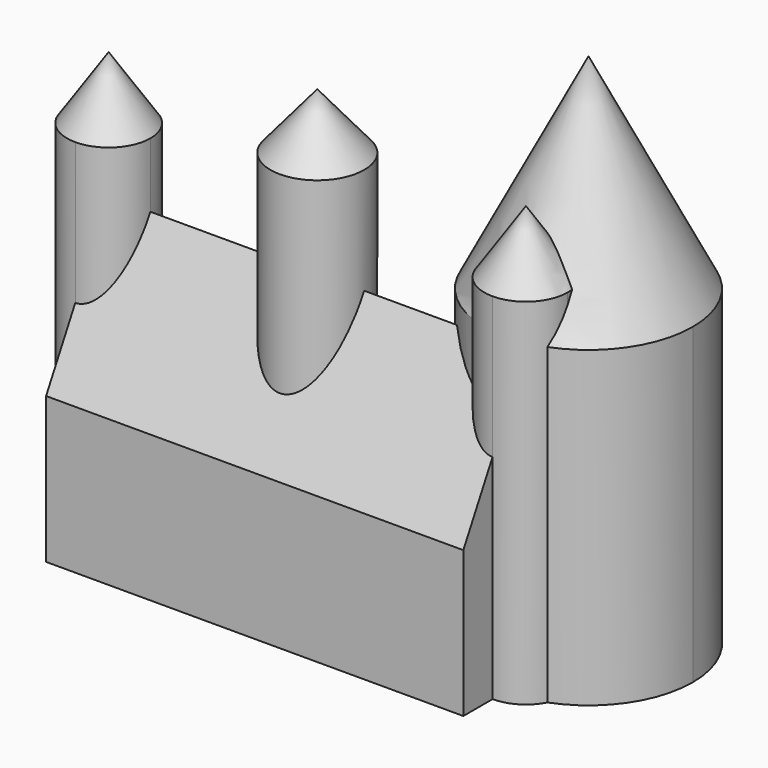
from build123d import *

# Parameters (mm, degrees)
F1_DEPTH      = 15
F2_DEPTH      = 7
F6_DEPTH      = 10
F6_DEPTH_BACK = 7
F5_R          = 2.25
F7_DEPTH      = 12
F9_DEPTH      = 20


with BuildPart() as f1:
    # F0 (on Top) → F1 (new body)
    with BuildSketch(Plane.XY):
        with BuildLine():
            ThreePointArc((0, -5), (3.5355339059, -3.5355339059), (5, 0))
            ThreePointArc((5, 0), (0, 5), (-5, 0))
            Line((-5, 0), (0, 0))
            Line((0, 0), (0, -5))
        make_face()
        with BuildLine():
            Line((0, 0), (-5, 0))
            ThreePointArc((-5, 0), (-3.5355339059, -3.5355339059), (0, -5))
            Line((0, -5), (0, 0))
        make_face()
    extrude(amount=F1_DEPTH)

    # F0 (on Top) → F2 (join)
    with BuildSketch(Plane.XY):
        with BuildLine():
            ThreePointArc((0, -5), (-3.5355339059, -3.5355339059), (-5, 0))
            Line((-5, 0), (-20, 0))
            Line((-20, 0), (-20, -7.5))
            Line((-20, -7.5), (0, -7.5))
            Line((0, -7.5), (0, -5))
        make_face()
    extrude(amount=F2_DEPTH)

    # F3 (on Front) → F4 (revolve)
    with BuildSketch(Plane.XZ):
        Polygon((0, 24.7979589711), (-5, 15), (0, 15), align=None)
    revolve(axis=Axis((0, 0, 19.8989794856), (0, 0, -1)))

    # F5 (on face) → F6 (join, two sides)
    with BuildSketch(Plane.XY.offset(7)) as f6_sk:
        with BuildLine():
            ThreePointArc((0, -5), (-0.9013878189, -4.9180788932), (-1.7732385626, -4.675))
            ThreePointArc((-1.7732385626, -4.675), (-1.0368220677, -5.4602631376), (0, -5.75))
            Line((0, -5.75), (0, -5))
        make_face()
        with BuildLine():
            ThreePointArc((2, -3.75), (-0.4761947473, -1.8075174228), (-1.7732385626, -4.675))
            ThreePointArc((-1.7732385626, -4.675), (-0.9013878189, -4.9180788932), (0, -5))
            Line((0, -5), (0, -5.75))
            ThreePointArc((0, -5.75), (1.4142135624, -5.1642135624), (2, -3.75))
        make_face()
        with BuildLine():
            Line((-20, -5.75), (-20, -1.75))
            ThreePointArc((-20, -1.75), (-22, -3.75), (-20, -5.75))
        make_face()
        with BuildLine():
            ThreePointArc((-20, -5.75), (-18.5857864376, -5.1642135624), (-18, -3.75))
            ThreePointArc((-18, -3.75), (-18.5857864376, -2.3357864376), (-20, -1.75))
            Line((-20, -1.75), (-20, -5.75))
        make_face()
    extrude(amount=F6_DEPTH)
    extrude(f6_sk.sketch, amount=-F6_DEPTH_BACK)

    # F5 (on face) → F7 (join)
    with BuildSketch(Plane.XY.offset(7)):
        with Locations((-10, -3.75)):
            Circle(F5_R)
    extrude(amount=F7_DEPTH)

    # F8 (on face) → F9 (join, through all)
    with BuildSketch(Plane(origin=(-20, 0, 0), x_dir=(0, -1, 0), z_dir=(-1, 0, 0))):
        Polygon((3.75, 13.9005221426), (0, 7), (1.75, 7), (5.75, 7), (7.5, 7), align=None)
    extrude(amount=-F9_DEPTH)

    # F11 (on face) → F12 (revolve)
    with BuildSketch(Plane.XZ.offset(3.75)):
        Polygon((-20, 19.9933259094), (-22, 17), (-20, 17), align=None)
    revolve(axis=Axis((-20, -3.75, 18.7693270892), (0, 0, 1)))

    # F11 (on face) → F13 (revolve)
    with BuildSketch(Plane.XZ.offset(3.75)):
        Polygon((-10, 21.6809513237), (-12.25, 19), (-10, 19), align=None)
    revolve(axis=Axis((-10, -3.75, 21.5624834672), (0, 0, 1)))

    # F11 (on face) → F14 (revolve)
    with BuildSketch(Plane.XZ.offset(3.75)):
        Polygon((0, 20), (-2, 17), (0, 17), align=None)
    revolve(axis=Axis((0, -3.75, 19.2562113553), (0, 0, 1)))


solid = f1.part
